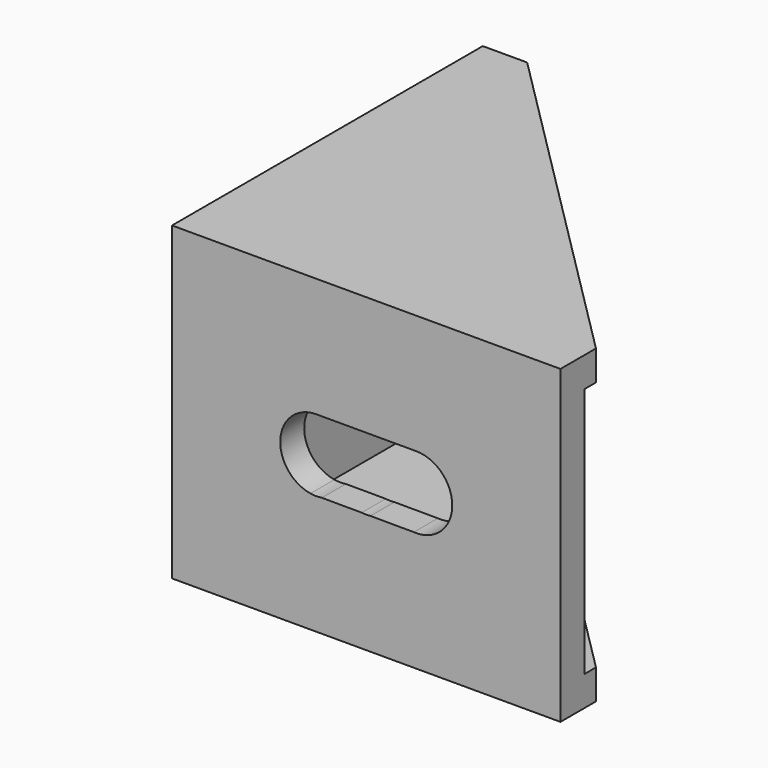
from build123d import *

# Parameters (mm, degrees)
F1_DEPTH = 28
F2_T     = -2.7
F4_DEPTH = 25
F6_DEPTH = 25


with BuildPart() as f1:
    # F0 (on Top) → F1 (new body)
    with BuildSketch(Plane.XY):
        Polygon((0, 35), (0, 0), (35, 0), (35, 4), (4, 35), align=None)
    extrude(amount=F1_DEPTH)

    # F2
    f2_openings = [f1.faces().sort_by_distance(p)[0] for p in [
        (19.5, 19.5, 14),
        (2, 35, 14),
        (35, 2, 14),
    ]]
    offset(amount=F2_T, openings=f2_openings)

    # F3 (on face) → F4 (cut)
    with BuildSketch(Plane(origin=(0, 0, 0), x_dir=(0, -1, 0), z_dir=(-1, 0, 0))):
        with BuildLine():
            Line((-17.460573, 10.750239), (-17.539427, 10.750239))
            ThreePointArc((-17.539427, 10.750239), (-17.5, 10.75), (-17.460573, 10.750239))
        make_face()
        with BuildLine():
            Line((-21.960573, 10.750239), (-17.539427, 10.750239))
            Line((-17.539427, 10.750239), (-17.460573, 10.750239))
            Line((-17.460573, 10.750239), (-13.039427, 10.750239))
            Line((-13.039427, 10.750239), (-12.960573, 10.750239))
            ThreePointArc((-12.960573, 10.750239), (-10.688005, 11.715885), (-9.75, 14))
            Line((-9.75, 14), (-13, 14))
            Line((-13, 14), (-17.5, 14))
            Line((-17.5, 14), (-22, 14))
            Line((-22, 14), (-25.25, 14))
            ThreePointArc((-25.25, 14), (-24.311995, 11.715885), (-22.039427, 10.750239))
            Line((-22.039427, 10.750239), (-21.960573, 10.750239))
        make_face()
        with BuildLine():
            ThreePointArc((-22.039427, 10.750239), (-22, 10.75), (-21.960573, 10.750239))
            Line((-21.960573, 10.750239), (-22.039427, 10.750239))
        make_face()
        with BuildLine():
            Line((-12.960573, 10.750239), (-13.039427, 10.750239))
            ThreePointArc((-13.039427, 10.750239), (-13, 10.75), (-12.960573, 10.750239))
        make_face()
        with BuildLine():
            ThreePointArc((-21.999708, 17.25), (-24.297994, 16.2982), (-25.25, 14))
            Line((-25.25, 14), (-22, 14))
            Line((-22, 14), (-17.5, 14))
            Line((-17.5, 14), (-13, 14))
            Line((-13, 14), (-9.75, 14))
            ThreePointArc((-9.75, 14), (-10.727581, 16.323491), (-13.072222, 17.249197))
            Line((-13.072222, 17.249197), (-21.999708, 17.25))
        make_face()
    extrude(amount=-F4_DEPTH, mode=Mode.SUBTRACT)

    # F5 (on face) → F6 (cut)
    with BuildSketch(Plane.XZ):
        with BuildLine():
            Line((17.880831, 10.77239), (21.787071, 10.756983))
            ThreePointArc((21.787071, 10.756983), (25.248254, 13.893489), (21.999979, 17.25))
            Line((21.999979, 17.25), (17.513798, 17.249971))
            ThreePointArc((17.513798, 17.249971), (17.499979, 17.25), (17.48616, 17.249971))
            Line((17.48616, 17.249971), (13.019522, 17.249941))
            ThreePointArc((13.019522, 17.249941), (12.999979, 17.25), (12.980436, 17.249941))
            ThreePointArc((12.980436, 17.249941), (9.760165, 14.256843), (12.46861, 10.793737))
            Line((12.46861, 10.793737), (13.506082, 10.789645))
            Line((13.506082, 10.789645), (17.093721, 10.775494))
            Line((17.093721, 10.775494), (17.880831, 10.77239))
        make_face()
        with BuildLine():
            ThreePointArc((17.093721, 10.775494), (17.487181, 10.750025), (17.880831, 10.77239))
            Line((17.880831, 10.77239), (17.093721, 10.775494))
        make_face()
        with BuildLine():
            ThreePointArc((12.46861, 10.793737), (12.987181, 10.750025), (13.506082, 10.789645))
            Line((13.506082, 10.789645), (12.46861, 10.793737))
        make_face()
    extrude(amount=-F6_DEPTH, mode=Mode.SUBTRACT)


solid = f1.part
